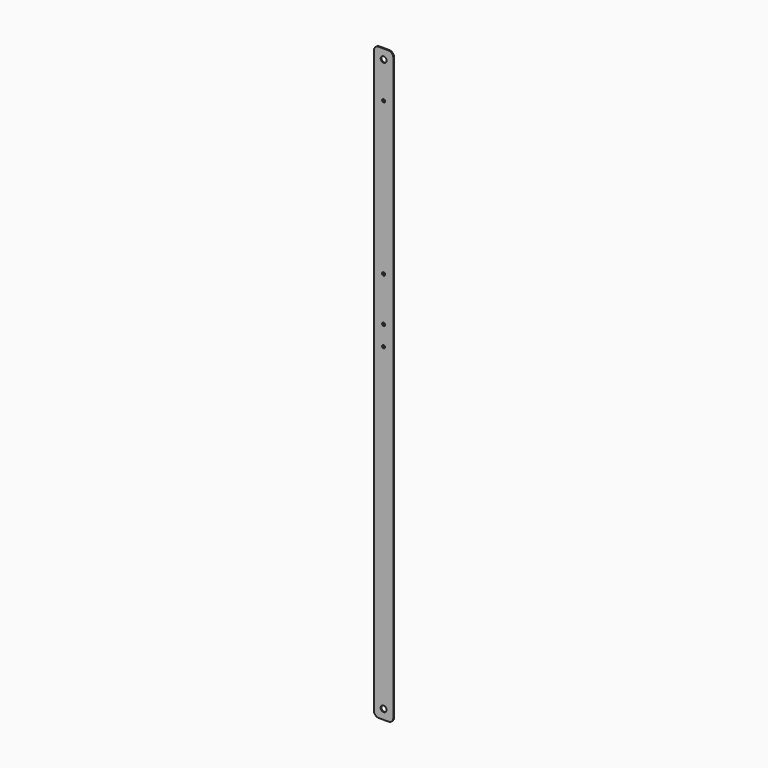
from build123d import *

# Parameters (mm, degrees)
F0_R     = 3
F0_R_2   = 1.6
F1_DEPTH = 1


with BuildPart() as f1:
    # F0 (on Front) → F1 (new body)
    with BuildSketch(Plane.XZ):
        with BuildLine():
            ThreePointArc((0, 5), (1.464466, 1.464466), (5, 0))
            Line((5, 0), (15, 0))
            ThreePointArc((15, 0), (18.535534, 1.464466), (20, 5))
            Line((20, 5), (20, 605))
            ThreePointArc((20, 605), (18.535534, 608.535534), (15, 610))
            Line((15, 610), (5, 610))
            ThreePointArc((5, 610), (1.464466, 608.535534), (0, 605))
            Line((0, 605), (0, 5))
        make_face()
        with Locations((10, 10)):
            Circle(F0_R, mode=Mode.SUBTRACT)
        with Locations((10, 339.16)):
            Circle(F0_R_2, mode=Mode.SUBTRACT)
        with Locations((10, 359.48)):
            Circle(F0_R_2, mode=Mode.SUBTRACT)
        with Locations((10, 405.2)):
            Circle(F0_R_2, mode=Mode.SUBTRACT)
        with Locations((10, 562.68)):
            Circle(F0_R_2, mode=Mode.SUBTRACT)
        with Locations((10, 600)):
            Circle(F0_R, mode=Mode.SUBTRACT)
    extrude(amount=F1_DEPTH)


solid = f1.part
